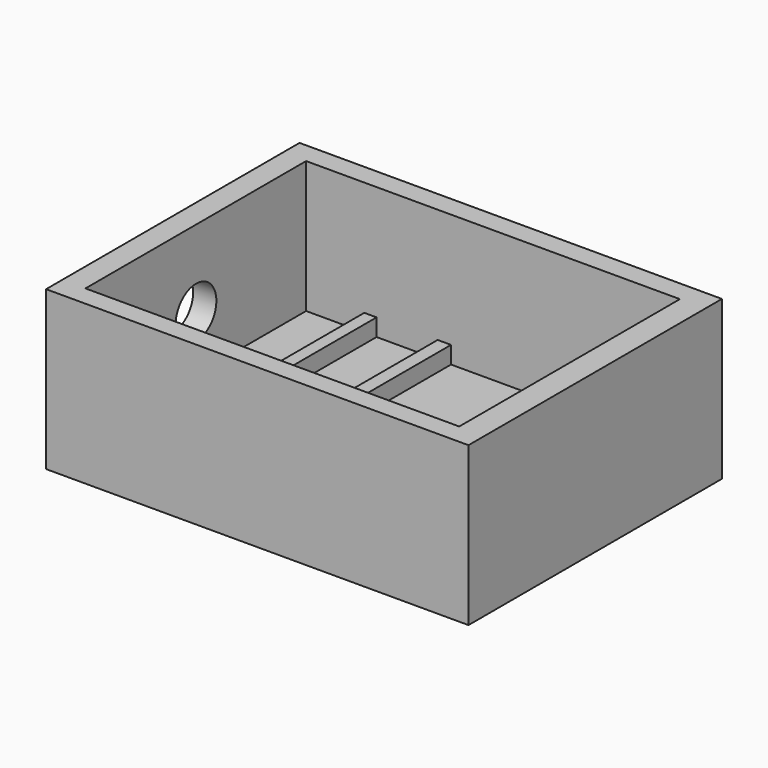
from build123d import *

# Parameters (mm, degrees)
F0_W     = 1219.2
F0_H     = 914.4
F1_DEPTH = 457.2
F2_W     = 1078.8844227791
F2_H     = 796.030819416
F3_DEPTH = 381
F4_R     = 73.4303316823
F5_DEPTH = 127
F6_W     = 38.5419428349
F6_H     = 398.015409708
F6_W_2   = 34.6445441246
F6_H_2   = 404.1308164597
F6_W_3   = 42.8168773651
F6_H_3   = 796.030819416
F6_W_4   = 35.4440659285
F7_DEPTH = 50


with BuildPart() as f1:
    # F0 (on Top) → F1 (new body)
    with BuildSketch(Plane.XY):
        with Locations((609.6, -457.2)):
            Rectangle(F0_W, F0_H)
    extrude(amount=F1_DEPTH)

    # F2 (on face) → F3 (cut)
    with BuildSketch(Plane.XY.offset(457.2)):
        with Locations((606.4463555813, -458.0872356892)):
            Rectangle(F2_W, F2_H)
    extrude(amount=-F3_DEPTH, mode=Mode.SUBTRACT)

    # F4 (on face) → F5 (cut)
    with BuildSketch(Plane(origin=(0, 0, 0), x_dir=(0, -1, 0), z_dir=(-1, 0, 0))):
        with Locations((457.2, 233.6474359035)):
            Circle(F4_R)
    extrude(amount=-F5_DEPTH, mode=Mode.SUBTRACT)

    # F6 (on face) → F7 (join)
    with BuildSketch(Plane.XY.offset(76.2)):
        with Locations((466.0627692938, -259.0795308352)):
            Rectangle(F6_W, F6_H)
        with Locations((708.6218893528, -654.0372371674)):
            Rectangle(F6_W_2, F6_H_2)
        with Locations((918.1770086288, -458.0872356892)):
            Rectangle(F6_W_3, F6_H_3)
        with Locations((252.6499405503, -458.0872356892)):
            Rectangle(F6_W_4, F6_H_3)
    extrude(amount=F7_DEPTH)


solid = f1.part
